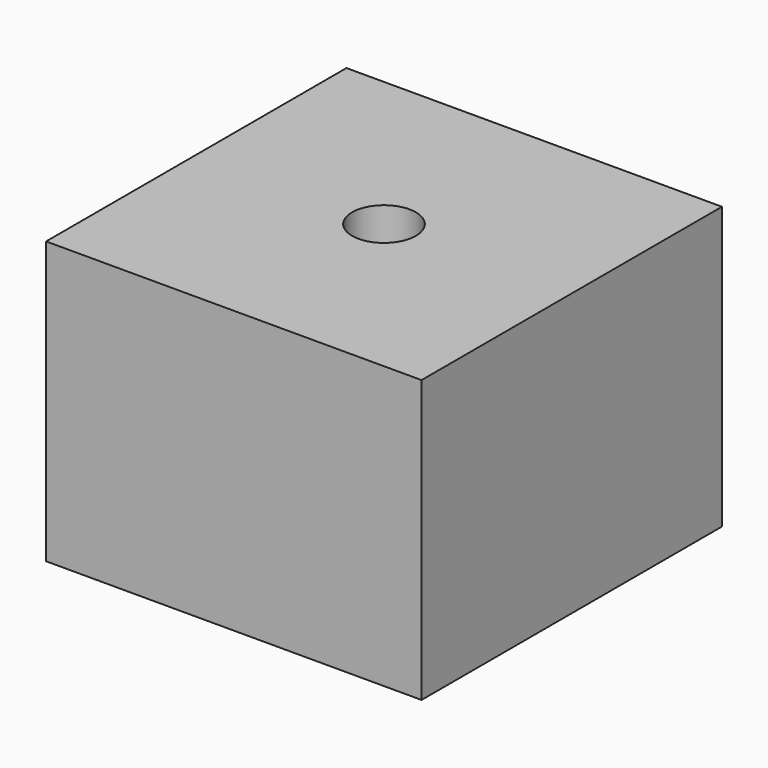
from build123d import *

# Parameters (mm, degrees)
CYLINDER017_R               = 1.7
CYLINDER017_DEPTH           = 80
CYLINDER017_PITCH_ANGLE     = 90
BOX_W                       = 15
BOX_H                       = 20
BOX_DEPTH                   = 20
CUT010035003033_PITCH_ANGLE = 90


with BuildPart() as taladro_tornillo010:
    # Cylinder017 → Cylinder017 (new body)
    with BuildSketch(Plane.XY):
        Circle(CYLINDER017_R)
    extrude(amount=CYLINDER017_DEPTH)


with BuildPart() as taladro_tornillo010_1:
    # Cylinder017 pitch: moved
    add(taladro_tornillo010.part.rotate(Axis((0, 0, 0), (0, 1, 0)), CYLINDER017_PITCH_ANGLE))


with BuildPart() as taladro_tornillo010_2:
    # Cylinder017 placement: moved
    add(taladro_tornillo010_1.part.moved(Location((-20, 10, 10))))


with BuildPart() as cut010035003033:
    # Box → Box (new body)
    with BuildSketch(Plane.XY):
        with Locations((7.5, 10)):
            Rectangle(BOX_W, BOX_H)
    extrude(amount=BOX_DEPTH)

    # Cut010035003033: cut Taladro tornillo010
    add(taladro_tornillo010_2.part, mode=Mode.SUBTRACT)


with BuildPart() as cut010035003033_1:
    # Cut010035003033 pitch: moved
    add(cut010035003033.part.rotate(Axis((0, 0, 0), (0, 1, 0)), CUT010035003033_PITCH_ANGLE))


with BuildPart() as cut010035003033_2:
    # Cut010035003033 placement: moved
    add(cut010035003033_1.part.moved(Location((91, 66, 133))))


solid = cut010035003033_2.part
